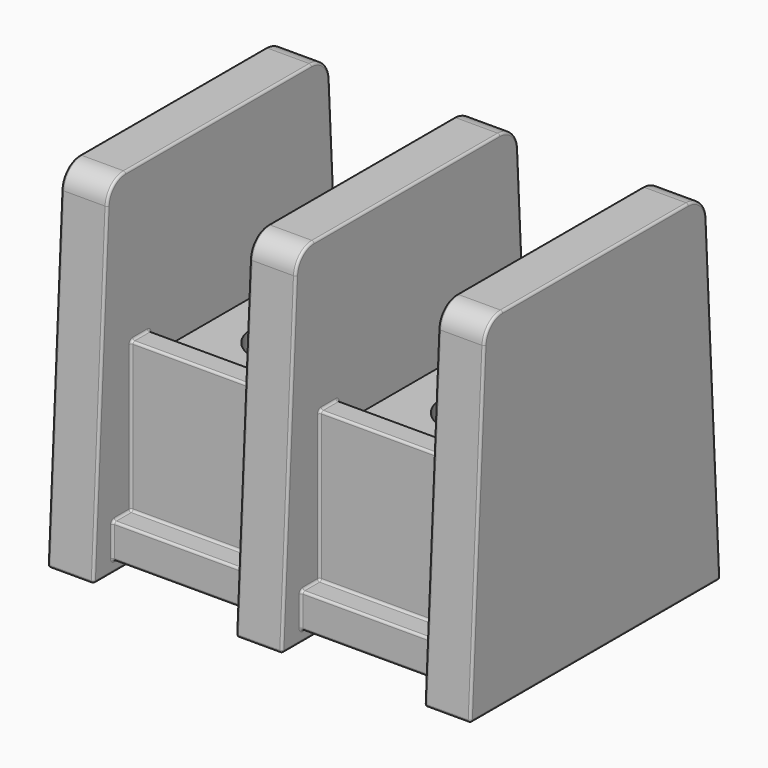
from build123d import *

# Parameters (mm, degrees)
PAD_DEPTH              = 18.4
SKETCH001_W            = 16
SKETCH001_H            = 6.2
POCKET_DEPTH           = 0.5
LINEARPATTERN_COUNT    = 2
LINEARPATTERN_PITCH    = 8.2
SKETCH002_W            = 16
SKETCH002_H            = 6.2
POCKET001_DEPTH        = 6.6
LINEARPATTERN001_COUNT = 2
LINEARPATTERN001_PITCH = 8.2
SKETCH003_W            = 1
SKETCH003_H            = 6.2
POCKET002_DEPTH        = 14.601
LINEARPATTERN002_COUNT = 2
LINEARPATTERN002_PITCH = 8.2
SKETCH004_W            = 1
SKETCH004_H            = 6.2
POCKET003_DEPTH        = 6.5
LINEARPATTERN003_COUNT = 2
LINEARPATTERN003_PITCH = 8.2
SKETCH005_W            = 7.54702
SKETCH005_H            = 6.2
POCKET004_DEPTH        = 1
LINEARPATTERN004_COUNT = 2
LINEARPATTERN004_PITCH = 8.2
SKETCH006_W            = 1.15
SKETCH006_H            = 1.15
POCKET005_DEPTH        = 7.501
LINEARPATTERN005_COUNT = 2
LINEARPATTERN005_PITCH = 8.25
SKETCH009_R            = 1.65
POCKET006_DEPTH        = 2.5
LINEARPATTERN006_COUNT = 2
LINEARPATTERN006_PITCH = 8.25
FILLET006_R            = 1
FILLET007_R            = 0.1
FILLET008_R            = 0.1
FILLET009_R            = 0.1
FILLET010_R            = 0.1
FILLET011_R            = 0.1
FILLET012_R            = 0.1
FILLET013_R            = 0.1
FILLET014_R            = 0.1
FILLET015_R            = 0.1
FILLET016_R            = 0.1
FILLET017_R            = 0.1
FILLET018_R            = 0.1
FILLET019_R            = 0.1
FILLET020_R            = 0.1


with BuildPart() as part:
    # Sketch → Pad (new body)
    with BuildSketch(Plane.YZ.offset(-9.2)):
        Polygon((-6.8, 0), (6.8, 0), (6, 15.1), (-6, 15.1), align=None)
    extrude(amount=PAD_DEPTH)

    # Sketch001 → Pocket (cut)
    with BuildSketch(Plane(origin=(-9.2, 0, 0), x_dir=(0, 1, 0), z_dir=(0, 0, -1))):
        with Locations((0, 5.1)):
            Rectangle(SKETCH001_W, SKETCH001_H)
    pocket = extrude(amount=-POCKET_DEPTH, mode=Mode.SUBTRACT)

    # LinearPattern: Pocket ×2
    with Locations(*[(i * LINEARPATTERN_PITCH, 0, 0) for i in range(1, LINEARPATTERN_COUNT)]):
        add(pocket, mode=Mode.SUBTRACT)

    # Sketch002 → Pocket001 (cut)
    with BuildSketch(Plane(origin=(-9.2, 0, 15.1), x_dir=(0, -1, 0), z_dir=(0, 0, 1))):
        with Locations((0, 5.1)):
            Rectangle(SKETCH002_W, SKETCH002_H)
    pocket001 = extrude(amount=-POCKET001_DEPTH, mode=Mode.SUBTRACT)

    # LinearPattern001: Pocket001 ×2
    with Locations(*[(i * LINEARPATTERN001_PITCH, 0, 0) for i in range(1, LINEARPATTERN001_COUNT)]):
        add(pocket001, mode=Mode.SUBTRACT)

    # Sketch003 → Pocket002 (cut, through all)
    with BuildSketch(Plane(origin=(-9.2, 0, 0.5), x_dir=(0, 1, 0), z_dir=(0, 0, -1))):
        with Locations((-6.27351, 5.1)):
            Rectangle(SKETCH003_W, SKETCH003_H)
        with Locations((6.27351, 5.1)):
            Rectangle(SKETCH003_W, SKETCH003_H)
    pocket002 = extrude(amount=-POCKET002_DEPTH, mode=Mode.SUBTRACT)

    # LinearPattern002: Pocket002 ×2
    with Locations(*[(i * LINEARPATTERN002_PITCH, 0, 0) for i in range(1, LINEARPATTERN002_COUNT)]):
        add(pocket002, mode=Mode.SUBTRACT)

    # Sketch004 → Pocket003 (cut)
    with BuildSketch(Plane(origin=(-9.2, 0, 8.5), x_dir=(0, -1, 0), z_dir=(0, 0, 1))):
        with Locations((-5.27351, 5.1)):
            Rectangle(SKETCH004_W, SKETCH004_H)
        with Locations((5.27351, 5.1)):
            Rectangle(SKETCH004_W, SKETCH004_H)
    pocket003 = extrude(amount=-POCKET003_DEPTH, mode=Mode.SUBTRACT)

    # LinearPattern003: Pocket003 ×2
    with Locations(*[(i * LINEARPATTERN003_PITCH, 0, 0) for i in range(1, LINEARPATTERN003_COUNT)]):
        add(pocket003, mode=Mode.SUBTRACT)

    # Sketch005 → Pocket004 (cut)
    with BuildSketch(Plane(origin=(-9.2, 0, 8.5), x_dir=(0, -1, 0), z_dir=(0, 0, 1))):
        with Locations((0, 5.1)):
            Rectangle(SKETCH005_W, SKETCH005_H)
    pocket004 = extrude(amount=-POCKET004_DEPTH, mode=Mode.SUBTRACT)

    # LinearPattern004: Pocket004 ×2
    with Locations(*[(i * LINEARPATTERN004_PITCH, 0, 0) for i in range(1, LINEARPATTERN004_COUNT)]):
        add(pocket004, mode=Mode.SUBTRACT)

    # Sketch006 → Pocket005 (cut, through all)
    with BuildSketch(Plane(origin=(-9.2, 0, 7.5), x_dir=(0, -1, 0), z_dir=(0, 0, 1))):
        with Locations((0, 5.1)):
            Rectangle(SKETCH006_W, SKETCH006_H)
    pocket005 = extrude(amount=-POCKET005_DEPTH, mode=Mode.SUBTRACT)

    # LinearPattern005: Pocket005 ×2
    with Locations(*[(i * LINEARPATTERN005_PITCH, 0, 0) for i in range(1, LINEARPATTERN005_COUNT)]):
        add(pocket005, mode=Mode.SUBTRACT)

    # Sketch009 → Pocket006 (cut)
    with BuildSketch(Plane(origin=(-9.2, 0, 7.5), x_dir=(0, -1, 0), z_dir=(0, 0, 1))):
        with Locations((0, 5.1)):
            Circle(SKETCH009_R)
    pocket006 = extrude(amount=-POCKET006_DEPTH, mode=Mode.SUBTRACT)

    # LinearPattern006: Pocket006 ×2
    with Locations(*[(i * LINEARPATTERN006_PITCH, 0, 0) for i in range(1, LINEARPATTERN006_COUNT)]):
        add(pocket006, mode=Mode.SUBTRACT)

    # Fillet006
    fillet006_edges = [part.edges().sort_by_distance(p)[0] for p in [
        (-8.2, -6, 15.1),
        (0, -6, 15.1),
        (8.2, -6, 15.1),
        (8.2, 6, 15.1),
        (0, 6, 15.1),
        (-8.2, 6, 15.1),
    ]]
    fillet(fillet006_edges, radius=FILLET006_R)

    # Fillet007
    fillet007_edges = [part.edges().sort_by_distance(p)[0] for p in [
        (-8.2, -6.8, 0),
        (0, -6.8, 0),
        (8.2, -6.8, 0),
        (8.2, 6.8, 0),
        (0, 6.8, 0),
        (-8.2, 6.8, 0),
    ]]
    fillet(fillet007_edges, radius=FILLET007_R)

    # Fillet008
    fillet008_edges = [part.edges().sort_by_distance(p)[0] for p in [
        (-4.1, -4.77351, 8.5),
        (-4.1, -3.77351, 8.5),
        (-4.1, 3.77351, 8.5),
        (-4.1, 4.77351, 8.5),
        (4.1, -4.77351, 8.5),
        (4.1, -3.77351, 8.5),
        (4.1, 3.77351, 8.5),
        (4.1, 4.77351, 8.5),
        (4.1, 5.77351, 2),
        (-4.1, 5.77351, 2),
        (-4.1, -5.77351, 2),
        (4.1, -5.77351, 2),
    ]]
    fillet(fillet008_edges, radius=FILLET008_R)

    # Fillet009
    fillet009_edges = [part.edges().sort_by_distance(p)[0] for p in [
        (4.1, -5.77351, 0.5),
        (-4.1, -5.77351, 0.5),
        (-4.1, 5.77351, 0.5),
        (4.1, 5.77351, 0.5),
    ]]
    fillet(fillet009_edges, radius=FILLET009_R)

    # Fillet010
    fillet010_edges = [part.edges().sort_by_distance(p)[0] for p in [
        (-4.1, -4.77351, 2),
        (4.1, -4.77351, 2),
        (4.1, 4.77351, 2),
        (-4.1, 4.77351, 2),
    ]]
    fillet(fillet010_edges, radius=FILLET010_R)

    # Fillet011
    fillet011_edges = [part.edges().sort_by_distance(p)[0] for p in [
        (-9.2, 0, 0),
    ]]
    fillet(fillet011_edges, radius=FILLET011_R)

    # Fillet012
    fillet012_edges = [part.edges().sort_by_distance(p)[0] for p in [
        (-7.2, 0, 0),
    ]]
    fillet(fillet012_edges, radius=FILLET012_R)

    # Fillet013
    fillet013_edges = [part.edges().sort_by_distance(p)[0] for p in [
        (-1, 0, 0),
    ]]
    fillet(fillet013_edges, radius=FILLET013_R)

    # Fillet014
    fillet014_edges = [part.edges().sort_by_distance(p)[0] for p in [
        (1, 0, 0),
    ]]
    fillet(fillet014_edges, radius=FILLET014_R)

    # Fillet015
    fillet015_edges = [part.edges().sort_by_distance(p)[0] for p in [
        (7.2, 0, 0),
    ]]
    fillet(fillet015_edges, radius=FILLET015_R)

    # Fillet016
    fillet016_edges = [part.edges().sort_by_distance(p)[0] for p in [
        (9.2, 0, 0),
    ]]
    fillet(fillet016_edges, radius=FILLET016_R)

    # Fillet017
    fillet017_edges = [part.edges().sort_by_distance(p)[0] for p in [
        (7.2, 0, 0.5),
    ]]
    fillet(fillet017_edges, radius=FILLET017_R)

    # Fillet018
    fillet018_edges = [part.edges().sort_by_distance(p)[0] for p in [
        (1, 0, 0.5),
    ]]
    fillet(fillet018_edges, radius=FILLET018_R)

    # Fillet019
    fillet019_edges = [part.edges().sort_by_distance(p)[0] for p in [
        (-1, 0, 0.5),
    ]]
    fillet(fillet019_edges, radius=FILLET019_R)

    # Fillet020
    fillet020_edges = [part.edges().sort_by_distance(p)[0] for p in [
        (-7.2, 0, 0.5),
    ]]
    fillet(fillet020_edges, radius=FILLET020_R)


solid = part.part
